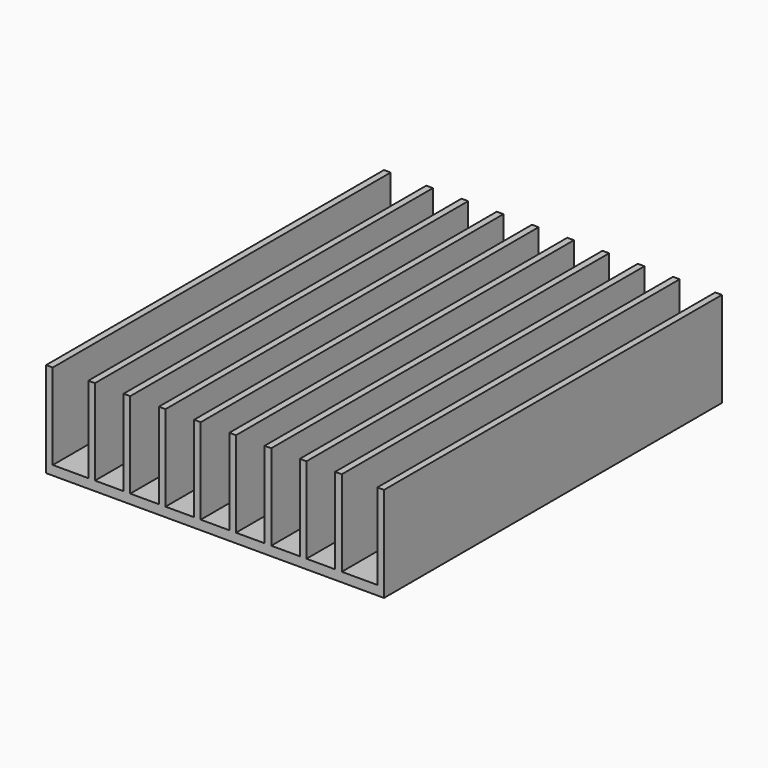
from build123d import *

# Parameters (mm, degrees)
F0_W     = 76
F0_H     = 95
F1_DEPTH = 21.4
F2_W     = 8
F2_H     = 19.3
F2_W_2   = 6.428571
F2_W_3   = 6.428572
F3_DEPTH = 95
F4_R     = 1.725
F5_DEPTH = 2.1


with BuildPart() as f1:
    # F0 (on Top) → F1 (new body)
    with BuildSketch(Plane.XY):
        Rectangle(F0_W, F0_H)
    extrude(amount=F1_DEPTH)

    # F2 (on face) → F3 (cut, through all)
    with BuildSketch(Plane.XZ.offset(47.5)):
        with Locations((-32.5, 11.75)):
            Rectangle(F2_W, F2_H)
        with Locations((32.5, 11.75)):
            Rectangle(F2_W, F2_H)
        with Locations((-23.785714, 11.75)):
            Rectangle(F2_W_2, F2_H)
        with Locations((-15.857143, 11.75)):
            Rectangle(F2_W_3, F2_H)
        with Locations((-7.928571, 11.75)):
            Rectangle(F2_W_2, F2_H)
        with Locations((0, 11.75)):
            Rectangle(F2_W_3, F2_H)
        with Locations((7.928571, 11.75)):
            Rectangle(F2_W_2, F2_H)
        with Locations((15.857143, 11.75)):
            Rectangle(F2_W_3, F2_H)
        with Locations((23.785714, 11.75)):
            Rectangle(F2_W_2, F2_H)
    extrude(amount=-F3_DEPTH, mode=Mode.SUBTRACT)

    # F4 (on face) → F5 (cut, through all)
    with BuildSketch(Plane(origin=(0, 0, 0), x_dir=(1, 0, 0), z_dir=(0, 0, -1))):
        with Locations((-17, 35.5)):
            Circle(F4_R)
        with Locations((17, 35.5)):
            Circle(F4_R)
        with Locations((17, 1.5)):
            Circle(F4_R)
        with Locations((-17, 1.5)):
            Circle(F4_R)
        with Locations((-34.5, 35.75)):
            Circle(F4_R)
        with Locations((34.5, 35.75)):
            Circle(F4_R)
        with Locations((34.5, -35.75)):
            Circle(F4_R)
        with Locations((-34.5, -35.75)):
            Circle(F4_R)
    extrude(amount=-F5_DEPTH, mode=Mode.SUBTRACT)


solid = f1.part
